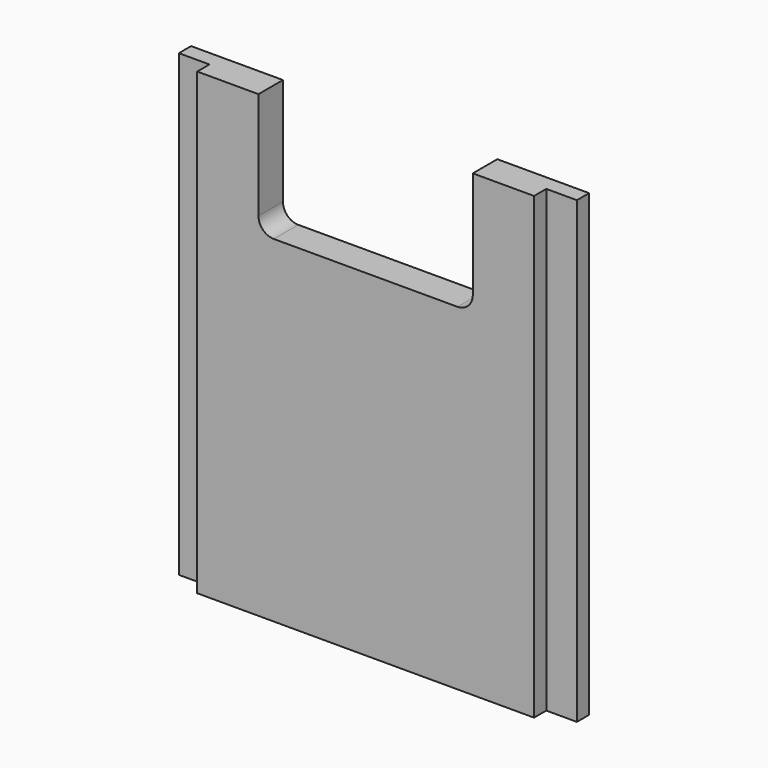
from build123d import *

# Parameters (mm, degrees)
F1_DEPTH = 6.35
F2_W     = 6.35
F2_H     = 95.25
F3_DEPTH = 3.175


with BuildPart() as f1:
    # F0 (on Front) → F1 (new body)
    with BuildSketch(Plane.XZ):
        with BuildLine():
            Line((-41.275, 0), (0, 0))
            Line((0, 0), (41.275, 0))
            Line((41.275, 0), (41.275, 95.25))
            Line((41.275, 95.25), (22.225, 95.25))
            Line((22.225, 95.25), (22.225, 73.025))
            ThreePointArc((22.225, 73.025), (21.2950640303, 70.7799359697), (19.05, 69.85))
            Line((19.05, 69.85), (-19.05, 69.85))
            ThreePointArc((-19.05, 69.85), (-21.2950640303, 70.7799359697), (-22.225, 73.025))
            Line((-22.225, 73.025), (-22.225, 95.25))
            Line((-22.225, 95.25), (-41.275, 95.25))
            Line((-41.275, 95.25), (-41.275, 0))
        make_face()
    extrude(amount=F1_DEPTH)

    # F2 (on face) → F3 (cut)
    with BuildSketch(Plane.XZ.offset(6.35)):
        with Locations((-38.1, 47.625)):
            Rectangle(F2_W, F2_H)
        with Locations((38.1, 47.625)):
            Rectangle(F2_W, F2_H)
    extrude(amount=-F3_DEPTH, mode=Mode.SUBTRACT)


solid = f1.part
